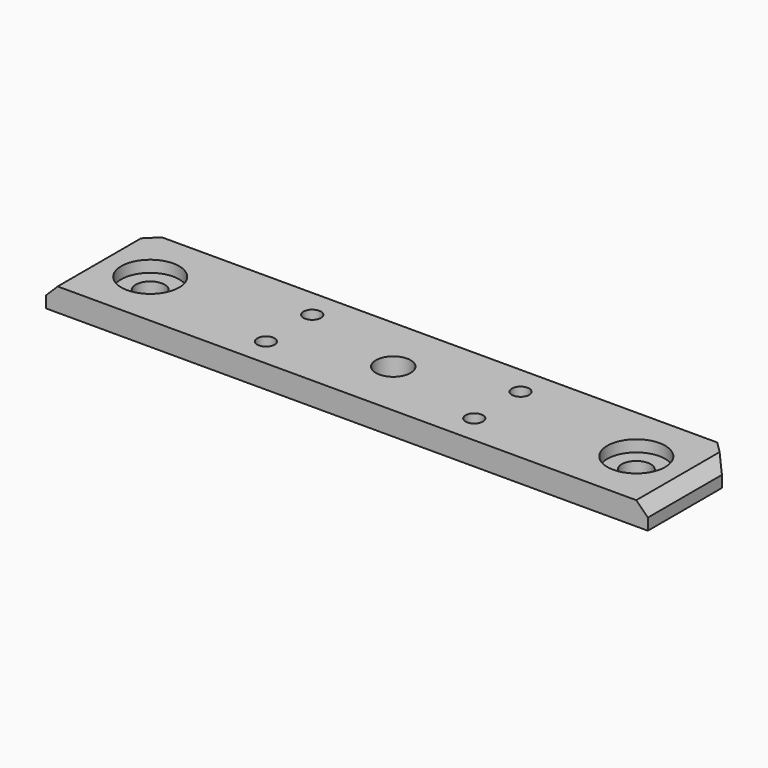
from build123d import *

# Parameters (mm, degrees)
CYLINDER1716_R     = 2.5
CYLINDER1716_DEPTH = 20
CYLINDER1717_R     = 2.5
CYLINDER1717_DEPTH = 20
CYLINDER1715_R     = 5
CYLINDER1715_DEPTH = 5
CYLINDER1718_R     = 5
CYLINDER1718_DEPTH = 5
CYLINDER1711_R     = 1.5
CYLINDER1711_DEPTH = 60
CYLINDER1712_R     = 1.5
CYLINDER1712_DEPTH = 60
CYLINDER1713_R     = 1.5
CYLINDER1713_DEPTH = 60
CYLINDER1714_R     = 1.5
CYLINDER1714_DEPTH = 60
CYLINDER1701_R     = 3
CYLINDER1701_DEPTH = 48
BOX659_W           = 104
BOX659_H           = 20
BOX659_DEPTH       = 4
CHAMFER057_SIZE    = 4
CHAMFER058_SIZE    = 2


with BuildPart() as obj1:
    # Cylinder1716 → Cylinder1716 (new body)
    with BuildSketch(Plane(origin=(-42, 90, -59), x_dir=(1, 0, 0), z_dir=(0, 0, 1))):
        Circle(CYLINDER1716_R)
    extrude(amount=CYLINDER1716_DEPTH)


with BuildPart() as compound845:
    # Cylinder1717 → Cylinder1717 (new body)
    with BuildSketch(Plane(origin=(42, 90, -59), x_dir=(1, 0, 0), z_dir=(0, 0, 1))):
        Circle(CYLINDER1717_R)
    extrude(amount=CYLINDER1717_DEPTH)

    # Compound845: union obj1
    add(obj1.part)


with BuildPart() as compound845_1:
    # Compound845 placement: moved
    add(compound845.part.moved(Location((0, 0, 18))))


with BuildPart() as obj2:
    # Cylinder1715 → Cylinder1715 (new body)
    with BuildSketch(Plane(origin=(-42, 90, -59), x_dir=(1, 0, 0), z_dir=(0, 0, 1))):
        Circle(CYLINDER1715_R)
    extrude(amount=CYLINDER1715_DEPTH)


with BuildPart() as compound844:
    # Cylinder1718 → Cylinder1718 (new body)
    with BuildSketch(Plane(origin=(42, 90, -59), x_dir=(1, 0, 0), z_dir=(0, 0, 1))):
        Circle(CYLINDER1718_R)
    extrude(amount=CYLINDER1718_DEPTH)

    # Compound844: union obj2
    add(obj2.part)


with BuildPart() as compound844_1:
    # Compound844 placement: moved
    add(compound844.part.moved(Location((0, 0, 29))))


with BuildPart() as obj3:
    # Cylinder1711 → Cylinder1711 (new body)
    with BuildSketch(Plane(origin=(18, 85, -57), x_dir=(1, 0, 0), z_dir=(0, 0, 1))):
        Circle(CYLINDER1711_R)
    extrude(amount=CYLINDER1711_DEPTH)


with BuildPart() as obj4:
    # Cylinder1712 → Cylinder1712 (new body)
    with BuildSketch(Plane(origin=(-18, 85, -57), x_dir=(1, 0, 0), z_dir=(0, 0, 1))):
        Circle(CYLINDER1712_R)
    extrude(amount=CYLINDER1712_DEPTH)


with BuildPart() as obj5:
    # Cylinder1713 → Cylinder1713 (new body)
    with BuildSketch(Plane(origin=(-18, 95, -57), x_dir=(1, 0, 0), z_dir=(0, 0, 1))):
        Circle(CYLINDER1713_R)
    extrude(amount=CYLINDER1713_DEPTH)


with BuildPart() as compound847:
    # Cylinder1714 → Cylinder1714 (new body)
    with BuildSketch(Plane(origin=(18, 95, -57), x_dir=(1, 0, 0), z_dir=(0, 0, 1))):
        Circle(CYLINDER1714_R)
    extrude(amount=CYLINDER1714_DEPTH)

    # Compound847: union obj3, obj4, obj5
    add(obj3.part)
    add(obj4.part)
    add(obj5.part)


with BuildPart() as obj6:
    # Cylinder1701 → Cylinder1701 (new body)
    with BuildSketch(Plane(origin=(0, 90, -55), x_dir=(1, 0, 0), z_dir=(0, 0, 1))):
        Circle(CYLINDER1701_R)
    extrude(amount=CYLINDER1701_DEPTH)


with BuildPart() as chamfer058:
    # Box659 → Box659 (new body)
    with BuildSketch(Plane(origin=(-52, 80, -32), x_dir=(1, 0, 0), z_dir=(0, 0, 1))):
        with Locations((52, 10)):
            Rectangle(BOX659_W, BOX659_H)
    extrude(amount=BOX659_DEPTH)

    # Cut345: cut obj6
    add(obj6.part, mode=Mode.SUBTRACT)

    # Cut351: cut Compound847
    add(compound847.part, mode=Mode.SUBTRACT)

    # Cut353: cut Compound844
    add(compound844_1.part, mode=Mode.SUBTRACT)

    # Cut350: cut Compound845
    add(compound845_1.part, mode=Mode.SUBTRACT)

    # Chamfer057
    chamfer057_edges = [chamfer058.edges().sort_by_distance(p)[0] for p in [
        (-52, 100, -30),
        (52, 100, -30),
    ]]
    chamfer(chamfer057_edges, length=CHAMFER057_SIZE)

    # Chamfer058
    chamfer058_edges = [chamfer058.edges().sort_by_distance(p)[0] for p in [
        (-52, 88, -28),
        (52, 88, -28),
    ]]
    chamfer(chamfer058_edges, length=CHAMFER058_SIZE)


solid = chamfer058.part
